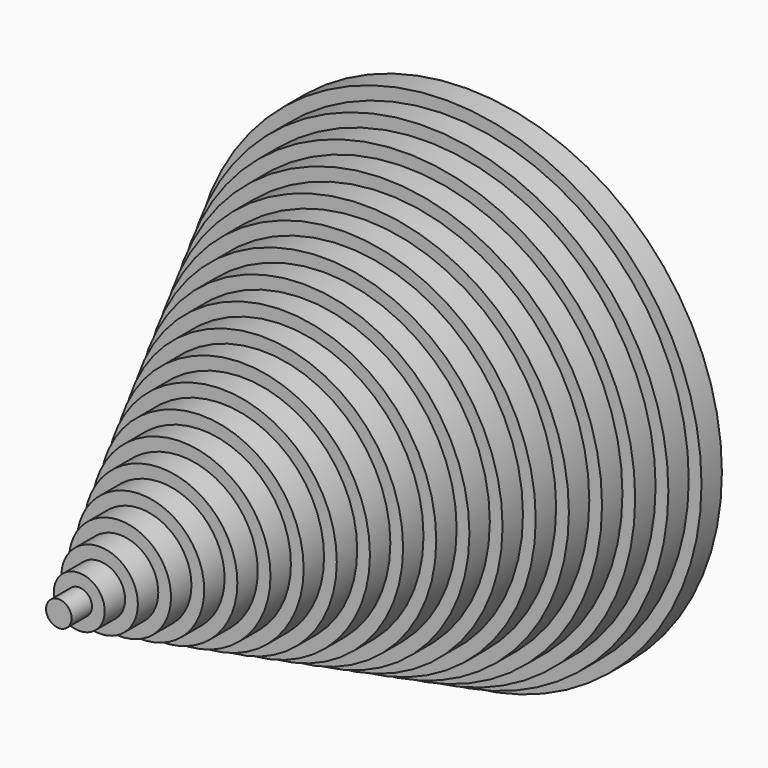
from build123d import *

# Parameters (mm, degrees)
F0_R      = 10
F1_DEPTH  = 1
F2_R      = 9.5
F3_DEPTH  = 1
F4_R      = 9
F5_DEPTH  = 1
F6_R      = 8.5
F7_DEPTH  = 1
F8_R      = 8
F9_DEPTH  = 1
F10_R     = 7.5
F11_DEPTH = 1
F12_R     = 7
F13_DEPTH = 1
F14_R     = 6.5
F15_DEPTH = 1
F16_R     = 6
F17_DEPTH = 1
F18_R     = 5.5
F19_DEPTH = 1
F20_R     = 5
F21_DEPTH = 1
F22_R     = 4.5
F23_DEPTH = 1
F24_R     = 4
F25_DEPTH = 1
F26_R     = 3.5
F27_DEPTH = 1
F28_R     = 3
F29_DEPTH = 1
F30_R     = 2.5
F31_DEPTH = 1
F32_R     = 2
F33_DEPTH = 1
F34_R     = 1.5
F35_DEPTH = 1
F36_R     = 1
F37_DEPTH = 1
F38_R     = 0.5
F39_DEPTH = 1


with BuildPart() as f1:
    # F0 (on Front) → F1 (new body)
    with BuildSketch(Plane.XZ):
        with Locations((0, 10.208829)):
            Circle(F0_R)
    extrude(amount=F1_DEPTH)

    # F2 (on face) → F3 (join)
    with BuildSketch(Plane.XZ.offset(1)):
        with Locations((0, 10.208829)):
            Circle(F2_R)
    extrude(amount=F3_DEPTH)

    # F4 (on face) → F5 (join)
    with BuildSketch(Plane.XZ.offset(2)):
        with Locations((0, 10.208829)):
            Circle(F4_R)
    extrude(amount=F5_DEPTH)

    # F6 (on face) → F7 (join)
    with BuildSketch(Plane.XZ.offset(3)):
        with Locations((0, 10.208829)):
            Circle(F6_R)
    extrude(amount=F7_DEPTH)

    # F8 (on face) → F9 (join)
    with BuildSketch(Plane.XZ.offset(4)):
        with Locations((0, 10.208829)):
            Circle(F8_R)
    extrude(amount=F9_DEPTH)

    # F10 (on face) → F11 (join)
    with BuildSketch(Plane.XZ.offset(5)):
        with Locations((0, 10.208829)):
            Circle(F10_R)
    extrude(amount=F11_DEPTH)

    # F12 (on face) → F13 (join)
    with BuildSketch(Plane.XZ.offset(6)):
        with Locations((0, 10.208829)):
            Circle(F12_R)
    extrude(amount=F13_DEPTH)

    # F14 (on face) → F15 (join)
    with BuildSketch(Plane.XZ.offset(7)):
        with Locations((0, 10.208829)):
            Circle(F14_R)
    extrude(amount=F15_DEPTH)

    # F16 (on face) → F17 (join)
    with BuildSketch(Plane.XZ.offset(8)):
        with Locations((0, 10.208829)):
            Circle(F16_R)
    extrude(amount=F17_DEPTH)

    # F18 (on face) → F19 (join)
    with BuildSketch(Plane.XZ.offset(9)):
        with Locations((0, 10.208829)):
            Circle(F18_R)
    extrude(amount=F19_DEPTH)

    # F20 (on face) → F21 (join)
    with BuildSketch(Plane.XZ.offset(10)):
        with Locations((0, 10.208829)):
            Circle(F20_R)
    extrude(amount=F21_DEPTH)

    # F22 (on face) → F23 (join)
    with BuildSketch(Plane.XZ.offset(11)):
        with Locations((0, 10.208829)):
            Circle(F22_R)
    extrude(amount=F23_DEPTH)

    # F24 (on face) → F25 (join)
    with BuildSketch(Plane.XZ.offset(12)):
        with Locations((0, 10.208829)):
            Circle(F24_R)
    extrude(amount=F25_DEPTH)

    # F26 (on face) → F27 (join)
    with BuildSketch(Plane.XZ.offset(13)):
        with Locations((0, 10.208829)):
            Circle(F26_R)
    extrude(amount=F27_DEPTH)

    # F28 (on face) → F29 (join)
    with BuildSketch(Plane.XZ.offset(14)):
        with Locations((0, 10.208829)):
            Circle(F28_R)
    extrude(amount=F29_DEPTH)

    # F30 (on face) → F31 (join)
    with BuildSketch(Plane.XZ.offset(15)):
        with Locations((0, 10.208829)):
            Circle(F30_R)
    extrude(amount=F31_DEPTH)

    # F32 (on face) → F33 (join)
    with BuildSketch(Plane.XZ.offset(16)):
        with Locations((0, 10.208829)):
            Circle(F32_R)
    extrude(amount=F33_DEPTH)

    # F34 (on face) → F35 (join)
    with BuildSketch(Plane.XZ.offset(17)):
        with Locations((0, 10.208829)):
            Circle(F34_R)
    extrude(amount=F35_DEPTH)

    # F36 (on face) → F37 (join)
    with BuildSketch(Plane.XZ.offset(18)):
        with Locations((0, 10.208829)):
            Circle(F36_R)
    extrude(amount=F37_DEPTH)

    # F38 (on face) → F39 (join)
    with BuildSketch(Plane.XZ.offset(19)):
        with Locations((0, 10.208829)):
            Circle(F38_R)
    extrude(amount=F39_DEPTH)


solid = f1.part
